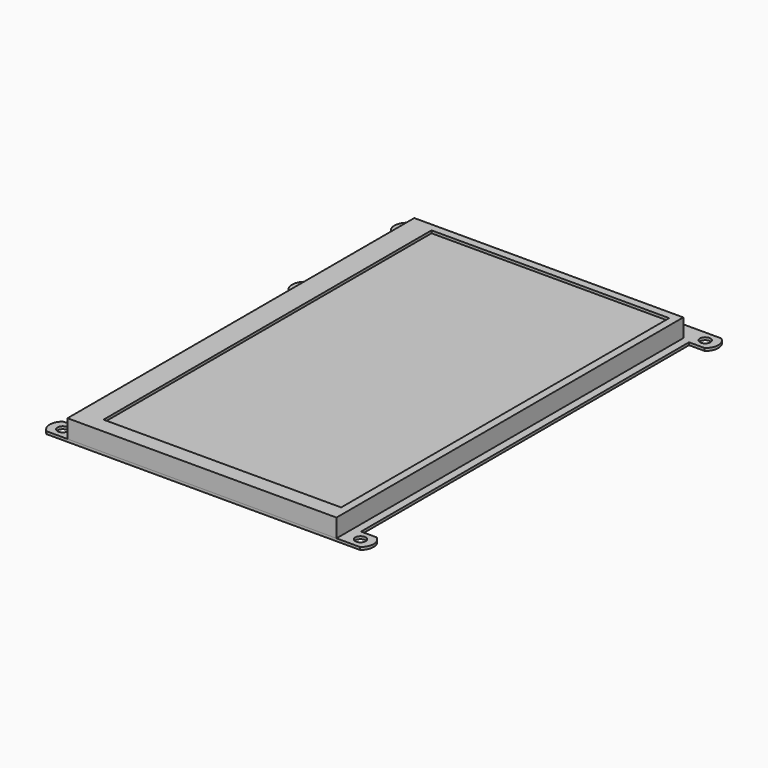
from build123d import *

# Parameters (mm, degrees)
F0_R     = 2
F1_DEPTH = 1
F2_W     = 103
F2_H     = 166
F3_DEPTH = 7
F4_W     = 91
F4_H     = 157
F5_DEPTH = 1
F6_R     = 2
F7_DEPTH = 8.001
F8_R     = 2
F9_DEPTH = 8


with BuildPart() as f1:
    # F0 (on Top) → F1 (new body)
    with BuildSketch(Plane.XY):
        with BuildLine():
            Line((58.281876, 83.973687), (-61.718124, 83.973687))
            ThreePointArc((-61.718124, 83.973687), (-63.718124, 79.973687), (-61.718124, 75.973687))
            Line((-61.718124, 75.973687), (-55.718124, 75.973687))
            Line((-55.718124, 75.973687), (-55.718124, 34.973687))
            Line((-55.718124, 34.973687), (-61.718124, 34.973687))
            ThreePointArc((-61.718124, 34.973687), (-63.718124, 30.973687), (-61.718124, 26.973687))
            Line((-61.718124, 26.973687), (-55.718124, 26.973687))
            Line((-55.718124, 26.973687), (-55.718124, -81.026313))
            Line((-55.718124, -81.026313), (-61.718124, -81.026313))
            ThreePointArc((-61.718124, -81.026313), (-63.718124, -85.026313), (-61.718124, -89.026313))
            Line((-61.718124, -89.026313), (58.281876, -89.026313))
            ThreePointArc((58.281876, -89.026313), (60.281876, -85.026313), (58.281876, -81.026313))
            Line((58.281876, -81.026313), (52.281876, -81.026313))
            Line((52.281876, -81.026313), (52.281876, 75.973687))
            Line((52.281876, 75.973687), (58.281876, 75.973687))
            ThreePointArc((58.281876, 75.973687), (60.281876, 79.973687), (58.281876, 83.973687))
        make_face()
        with Locations((-58.718124, -85.026313)):
            Circle(F0_R, mode=Mode.SUBTRACT)
        with Locations((55.281876, -85.026313)):
            Circle(F0_R, mode=Mode.SUBTRACT)
        with Locations((-58.718124, 30.973687)):
            Circle(F0_R, mode=Mode.SUBTRACT)
        with Locations((-58.718124, 79.973687)):
            Circle(F0_R, mode=Mode.SUBTRACT)
        with Locations((55.281876, 79.973687)):
            Circle(F0_R, mode=Mode.SUBTRACT)
    extrude(amount=F1_DEPTH)

    # F6 (on face) → F7 (cut, through all)
    with BuildSketch(Plane(origin=(0, 0, 0), x_dir=(1, 0, 0), z_dir=(0, 0, -1))):
        with Locations((-0.718124, -79.973687)):
            Circle(F6_R)
    extrude(amount=-F7_DEPTH, mode=Mode.SUBTRACT)

    # F8 (on face) → F9 (join)
    with BuildSketch(Plane(origin=(0, 0, 0), x_dir=(1, 0, 0), z_dir=(0, 0, -1))):
        Polygon((-3.718124, -78.241636), (-3.718124, -81.705737), (-0.718124, -83.437788), (2.281876, -81.705737), (2.281876, -78.241636), (-0.718124, -76.509585), align=None)
        with Locations((-0.718124, -79.973687)):
            Circle(F8_R, mode=Mode.SUBTRACT)
        Polygon((-61.718124, -78.241636), (-61.718124, -81.705737), (-58.718124, -83.437788), (-55.718124, -81.705737), (-55.718124, -78.241636), (-58.718124, -76.509585), align=None)
        with Locations((-58.718124, -79.973687)):
            Circle(F8_R, mode=Mode.SUBTRACT)
        Polygon((-61.718124, -29.241636), (-61.718124, -32.705737), (-58.718124, -34.437788), (-55.718124, -32.705737), (-55.718124, -29.241636), (-58.718124, -27.509585), align=None)
        with Locations((-58.718124, -30.973687)):
            Circle(F8_R, mode=Mode.SUBTRACT)
    extrude(amount=F9_DEPTH)


with BuildPart() as f3:
    # F2 (on face) → F3 (new body)
    with BuildSketch(Plane.XY.offset(1)):
        with Locations((-2.218124, -6.026313)):
            Rectangle(F2_W, F2_H)
    extrude(amount=F3_DEPTH)

    # F4 (on face) → F5 (cut)
    with BuildSketch(Plane.XY.offset(8)):
        with Locations((0.781876, -4.526313)):
            Rectangle(F4_W, F4_H)
    extrude(amount=-F5_DEPTH, mode=Mode.SUBTRACT)


solid = Compound([f1.part, f3.part])
